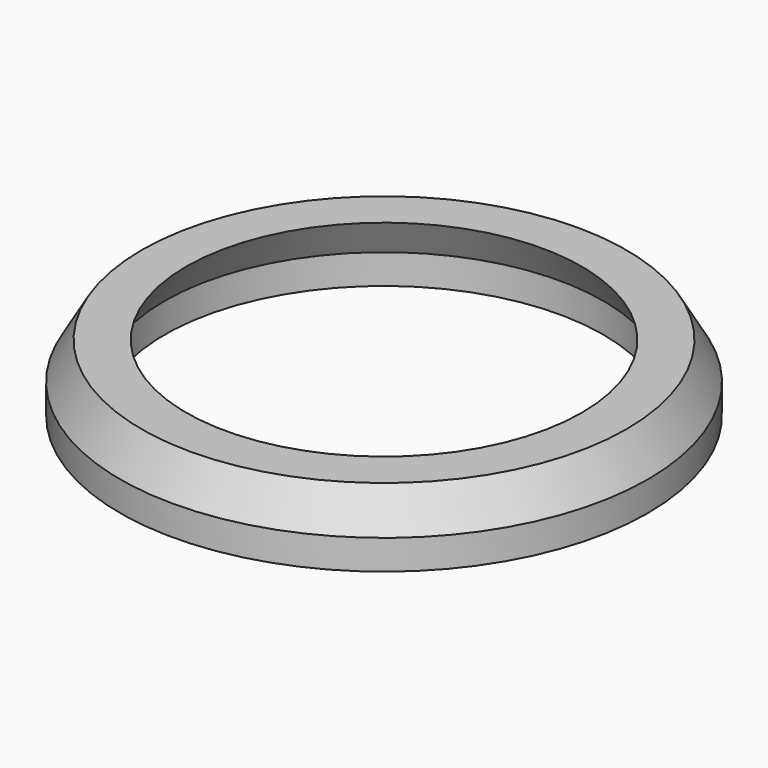
from build123d import *

# Parameters (mm, degrees)
F0_R     = 17.75
F0_R_2   = 14.75
F1_DEPTH = 2


with BuildPart() as f1:
    # F0 (on Top) → F1 (new body)
    with BuildSketch(Plane.XY):
        Circle(F0_R)
        Circle(F0_R_2, mode=Mode.SUBTRACT)
    extrude(amount=F1_DEPTH)

    # F2 (on Front) → F3 (revolve)
    with BuildSketch(Plane.XZ):
        Polygon((-16.306624, 4.5), (-17.75, 2), (-14.75, 2), (-13.306624, 4.5), align=None)
    revolve(axis=Axis((0, 0, 3.392037), (0, 0, 1)))


solid = f1.part
